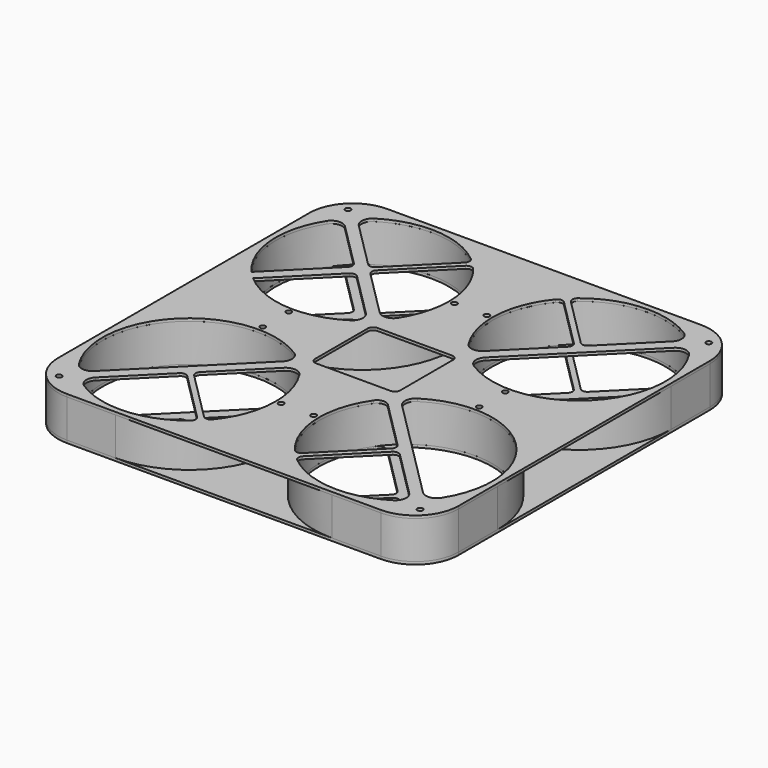
from build123d import *

# Parameters (mm, degrees)
F0_R      = 3.175
F0_R_2    = 101.6
F1_DEPTH  = 44.45
F2_R      = 5.08
F9_R      = 3.175
F10_DEPTH = 3.175
F14_DEPTH = 8.5785556585


with BuildPart() as f1:
    # F0 (on Top) → F1 (new body)
    with BuildSketch(Plane.XY):
        with BuildLine():
            ThreePointArc((106.5892857143, 17.085861726), (70.0313634263, 82.1511450721), (0, 107.95))
            Line((0, 107.95), (-57.15, 107.95))
            ThreePointArc((-57.15, 107.95), (-93.0710244843, 93.0710244843), (-107.95, 57.15))
            Line((-107.95, 57.15), (-107.95, 0))
            ThreePointArc((-107.95, 0), (-82.1511450721, -70.0313634263), (-17.085861726, -106.5892857143))
            ThreePointArc((-17.085861726, -106.5892857143), (-10.2170025512, -108.7216051413), (-4.221212897, -112.6938235294))
            ThreePointArc((-4.221212897, -112.6938235294), (0, -114.3), (4.221212897, -112.6938235294))
            ThreePointArc((4.221212897, -112.6938235294), (10.2170025512, -108.7216051413), (17.085861726, -106.5892857143))
            ThreePointArc((17.085861726, -106.5892857143), (76.3321770291, -76.3321770291), (106.5892857143, -17.085861726))
            ThreePointArc((106.5892857143, -17.085861726), (108.7216051413, -10.2170025512), (112.6938235294, -4.221212897))
            ThreePointArc((112.6938235294, -4.221212897), (114.3, 0), (112.6938235294, 4.221212897))
            ThreePointArc((112.6938235294, 4.221212897), (108.7216051413, 10.2170025512), (106.5892857143, 17.085861726))
        make_face()
        with Locations((0, -107.95)):
            Circle(F0_R, mode=Mode.SUBTRACT)
        Circle(F0_R_2, mode=Mode.SUBTRACT)
        with BuildLine():
            ThreePointArc((-80.6901280605, 71.7098719395), (-92.8318069211, 55.0949918211), (-101.6, 36.4779728055))
            Line((-101.6, 36.4779728055), (-101.6, 57.15))
            ThreePointArc((-101.6, 57.15), (-99.3291559567, 71.1757371564), (-92.7486477939, 83.7683916728))
            Line((-92.7486477939, 83.7683916728), (-80.6901280605, 71.7098719395))
        make_face(mode=Mode.SUBTRACT)
        with Locations((-84.7016007567, 84.7016007567)):
            Circle(F0_R, mode=Mode.SUBTRACT)
        with BuildLine():
            ThreePointArc((-83.7683916728, 92.7486477939), (-71.1757371564, 99.3291559567), (-57.15, 101.6))
            Line((-57.15, 101.6), (-36.4779728055, 101.6))
            ThreePointArc((-36.4779728055, 101.6), (-55.0949918211, 92.8318069211), (-71.7098719395, 80.6901280605))
            Line((-71.7098719395, 80.6901280605), (-83.7683916728, 92.7486477939))
        make_face(mode=Mode.SUBTRACT)
        with Locations((107.95, 0)):
            Circle(F0_R, mode=Mode.SUBTRACT)
    extrude(amount=F1_DEPTH)

    # F2
    f2_edges = [f1.edges().sort_by_distance(p)[0] for p in [
        (-36.477973, 101.6, 22.225),
        (-71.709872, 80.690128, 22.225),
        (-83.768392, 92.748648, 22.225),
        (-80.690128, 71.709872, 22.225),
        (-101.6, 36.477973, 22.225),
        (-92.748648, 83.768392, 22.225),
    ]]
    fillet(f2_edges, radius=F2_R)


with BuildPart() as f3_1:
    # F3: instance of F1
    add(f1.part.mirror(Plane.YZ))


with BuildPart() as f4_1:
    # F4: instance of F3_1
    add(f3_1.part.mirror(Plane.XZ))


with BuildPart() as f5_1:
    # F5: instance of F4_1
    add(f4_1.part.mirror(Plane.YZ))


with BuildPart() as f5_1_1:
    # F6: moved
    add(f5_1.part.moved(Location((0, -254, 0))))


with BuildPart() as f3_1_1:
    # F7: moved
    add(f3_1.part.moved(Location((254, 0, 0))))


with BuildPart() as f4_1_1:
    # F8: moved
    add(f4_1.part.moved(Location((254, -254, 0))))


with BuildPart() as f10:
    # F9 (on face) → F10 (new body)
    with BuildSketch(Plane.XY.offset(44.45)):
        with BuildLine():
            Line((254, 107.95), (0, 107.95))
            ThreePointArc((0, 107.95), (70.0313634263, 82.1511450721), (106.5892857143, 17.085861726))
            ThreePointArc((106.5892857143, 17.085861726), (108.7216051413, 10.2170025512), (112.6938235294, 4.221212897))
            ThreePointArc((112.6938235294, 4.221212897), (114.3, 0), (112.6938235294, -4.221212897))
            ThreePointArc((112.6938235294, -4.221212897), (108.7216051413, -10.2170025512), (106.5892857143, -17.085861726))
            ThreePointArc((106.5892857143, -17.085861726), (76.3321770291, -76.3321770291), (17.085861726, -106.5892857143))
            ThreePointArc((17.085861726, -106.5892857143), (10.2170025512, -108.7216051413), (4.221212897, -112.6938235294))
            ThreePointArc((4.221212897, -112.6938235294), (0, -114.3), (-4.221212897, -112.6938235294))
            ThreePointArc((-4.221212897, -112.6938235294), (-10.2170025512, -108.7216051413), (-17.085861726, -106.5892857143))
            ThreePointArc((-17.085861726, -106.5892857143), (-82.1511450721, -70.0313634263), (-107.95, 0))
            Line((-107.95, 0), (-107.95, -254))
            Line((-107.95, -254), (-107.95, -311.15))
            ThreePointArc((-107.95, -311.15), (-93.0710244843, -347.0710244843), (-57.15, -361.95))
            Line((-57.15, -361.95), (0, -361.95))
            Line((0, -361.95), (254, -361.95))
            Line((254, -361.95), (311.15, -361.95))
            ThreePointArc((311.15, -361.95), (347.0710244843, -347.0710244843), (361.95, -311.15))
            Line((361.95, -311.15), (361.95, -254))
            Line((361.95, -254), (361.95, 0))
            Line((361.95, 0), (361.95, 57.15))
            ThreePointArc((361.95, 57.15), (347.0710244843, 93.0710244843), (311.15, 107.95))
            Line((311.15, 107.95), (254, 107.95))
        make_face()
        with Locations((-84.7016007567, -338.7016007567)):
            Circle(F9_R, mode=Mode.SUBTRACT)
        with BuildLine():
            ThreePointArc((64.2977312829, -332.6661410766), (5.8790026415, -355.4297654929), (-54.7785069335, -339.5679564915))
            ThreePointArc((-54.7785069335, -339.5679564915), (-60.5572261663, -330.2406477221), (-56.9114496879, -319.891705809))
            Line((-56.9114496879, -319.891705809), (-2.2450640303, -265.2253201513))
            ThreePointArc((-2.2450640303, -265.2253201513), (2.2450640303, -263.3654482119), (6.7351920908, -265.2253201513))
            Line((6.7351920908, -265.2253201513), (64.7692511382, -323.2593791987))
            ThreePointArc((64.7692511382, -323.2593791987), (66.6211606419, -328.0674058809), (64.2977312829, -332.6661410766))
        make_face(mode=Mode.SUBTRACT)
        with BuildLine():
            ThreePointArc((65.891705809, -197.0885503121), (76.2406477221, -193.4427738337), (85.5679564915, -199.2214930665))
            ThreePointArc((85.5679564915, -199.2214930665), (101.4297654929, -259.8790026415), (78.6661410766, -318.2977312829))
            ThreePointArc((78.6661410766, -318.2977312829), (74.0674058809, -320.6211606419), (69.2593791987, -318.7692511382))
            Line((69.2593791987, -318.7692511382), (11.2253201513, -260.7351920908))
            ThreePointArc((11.2253201513, -260.7351920908), (9.3654482119, -256.2450640303), (11.2253201513, -251.7549359697))
            Line((11.2253201513, -251.7549359697), (65.891705809, -197.0885503121))
        make_face(mode=Mode.SUBTRACT)
        with Locations((107.95, -254)):
            Circle(F9_R, mode=Mode.SUBTRACT)
        with BuildLine():
            Line((56.9114496879, -188.108294191), (-65.891705809, -310.9114496879))
            ThreePointArc((-65.891705809, -310.9114496879), (-76.2406477221, -314.5572261663), (-85.5679564915, -308.7785069335))
            ThreePointArc((-85.5679564915, -308.7785069335), (-71.8420489686, -182.1579510314), (54.7785069335, -168.4320435085))
            ThreePointArc((54.7785069335, -168.4320435085), (60.5572261663, -177.7593522779), (56.9114496879, -188.108294191))
        make_face(mode=Mode.SUBTRACT)
        with Locations((0, -146.05)):
            Circle(F9_R, mode=Mode.SUBTRACT)
        with Locations((146.05, -254)):
            Circle(F9_R, mode=Mode.SUBTRACT)
        with BuildLine():
            ThreePointArc((175.3338589234, -318.2977312829), (152.4841046766, -258.1331581969), (170.3672093035, -196.310171431))
            ThreePointArc((170.3672093035, -196.310171431), (177.809474078, -191.9609858436), (185.91469327, -194.8949493911))
            Line((185.91469327, -194.8949493911), (242.7746798487, -251.7549359697))
            ThreePointArc((242.7746798487, -251.7549359697), (244.6345517881, -256.2450640303), (242.7746798487, -260.7351920908))
            Line((242.7746798487, -260.7351920908), (184.7406208013, -318.7692511382))
            ThreePointArc((184.7406208013, -318.7692511382), (179.9325941191, -320.6211606419), (175.3338589234, -318.2977312829))
        make_face(mode=Mode.SUBTRACT)
        with BuildLine():
            ThreePointArc((310.9114496879, -319.891705809), (314.5572261663, -330.2406477221), (308.7785069335, -339.5679564915))
            ThreePointArc((308.7785069335, -339.5679564915), (248.1209973585, -355.4297654929), (189.7022687171, -332.6661410766))
            ThreePointArc((189.7022687171, -332.6661410766), (187.3788393581, -328.0674058809), (189.2307488618, -323.2593791987))
            Line((189.2307488618, -323.2593791987), (247.2648079092, -265.2253201513))
            ThreePointArc((247.2648079092, -265.2253201513), (251.7549359697, -263.3654482119), (256.2450640303, -265.2253201513))
            Line((256.2450640303, -265.2253201513), (310.9114496879, -319.891705809))
        make_face(mode=Mode.SUBTRACT)
        with Locations((338.7016007567, -338.7016007567)):
            Circle(F9_R, mode=Mode.SUBTRACT)
        with BuildLine():
            ThreePointArc((199.2214930665, -168.4320435085), (325.8420489686, -182.1579510314), (339.5679564915, -308.7785069335))
            ThreePointArc((339.5679564915, -308.7785069335), (330.2406477221, -314.5572261663), (319.891705809, -310.9114496879))
            Line((319.891705809, -310.9114496879), (197.0885503121, -188.108294191))
            ThreePointArc((197.0885503121, -188.108294191), (193.4427738337, -177.7593522779), (199.2214930665, -168.4320435085))
        make_face(mode=Mode.SUBTRACT)
        with Locations((254, -146.05)):
            Circle(F9_R, mode=Mode.SUBTRACT)
        with Locations((254, -107.95)):
            Circle(F9_R, mode=Mode.SUBTRACT)
        with BuildLine():
            ThreePointArc((339.5679564915, 54.7785069335), (325.8420489686, -71.8420489686), (199.2214930665, -85.5679564915))
            ThreePointArc((199.2214930665, -85.5679564915), (193.4427738337, -76.2406477221), (197.0885503121, -65.891705809))
            Line((197.0885503121, -65.891705809), (319.891705809, 56.9114496879))
            ThreePointArc((319.891705809, 56.9114496879), (330.2406477221, 60.5572261663), (339.5679564915, 54.7785069335))
        make_face(mode=Mode.SUBTRACT)
        with Locations((146.05, 0)):
            Circle(F9_R, mode=Mode.SUBTRACT)
        with BuildLine():
            Line((242.7746798487, -2.2450640303), (188.108294191, -56.9114496879))
            ThreePointArc((188.108294191, -56.9114496879), (177.7593522779, -60.5572261663), (168.4320435085, -54.7785069335))
            ThreePointArc((168.4320435085, -54.7785069335), (152.5702345071, 5.8790026415), (175.3338589234, 64.2977312829))
            ThreePointArc((175.3338589234, 64.2977312829), (179.9325941191, 66.6211606419), (184.7406208013, 64.7692511382))
            Line((184.7406208013, 64.7692511382), (242.7746798487, 6.7351920908))
            ThreePointArc((242.7746798487, 6.7351920908), (244.6345517881, 2.2450640303), (242.7746798487, -2.2450640303))
        make_face(mode=Mode.SUBTRACT)
        with BuildLine():
            ThreePointArc((189.7022687171, 78.6661410766), (248.1209973585, 101.4297654929), (308.7785069335, 85.5679564915))
            ThreePointArc((308.7785069335, 85.5679564915), (314.5572261663, 76.2406477221), (310.9114496879, 65.891705809))
            Line((310.9114496879, 65.891705809), (256.2450640303, 11.2253201513))
            ThreePointArc((256.2450640303, 11.2253201513), (251.7549359697, 9.3654482119), (247.2648079092, 11.2253201513))
            Line((247.2648079092, 11.2253201513), (189.2307488618, 69.2593791987))
            ThreePointArc((189.2307488618, 69.2593791987), (187.3788393581, 74.0674058809), (189.7022687171, 78.6661410766))
        make_face(mode=Mode.SUBTRACT)
        with Locations((338.7016007567, 84.7016007567)):
            Circle(F9_R, mode=Mode.SUBTRACT)
        with BuildLine():
            Line((0, 107.95), (-57.15, 107.95))
            ThreePointArc((-57.15, 107.95), (-93.0710244843, 93.0710244843), (-107.95, 57.15))
            Line((-107.95, 57.15), (-107.95, 0))
            ThreePointArc((-107.95, 0), (-82.1511450721, -70.0313634263), (-17.085861726, -106.5892857143))
            ThreePointArc((-17.085861726, -106.5892857143), (-10.2170025512, -108.7216051413), (-4.221212897, -112.6938235294))
            ThreePointArc((-4.221212897, -112.6938235294), (0, -114.3), (4.221212897, -112.6938235294))
            ThreePointArc((4.221212897, -112.6938235294), (10.2170025512, -108.7216051413), (17.085861726, -106.5892857143))
            ThreePointArc((17.085861726, -106.5892857143), (76.3321770291, -76.3321770291), (106.5892857143, -17.085861726))
            ThreePointArc((106.5892857143, -17.085861726), (108.7216051413, -10.2170025512), (112.6938235294, -4.221212897))
            ThreePointArc((112.6938235294, -4.221212897), (114.3, 0), (112.6938235294, 4.221212897))
            ThreePointArc((112.6938235294, 4.221212897), (108.7216051413, 10.2170025512), (106.5892857143, 17.085861726))
            ThreePointArc((106.5892857143, 17.085861726), (70.0313634263, 82.1511450721), (0, 107.95))
        make_face()
        with Locations((0, -107.95)):
            Circle(F9_R, mode=Mode.SUBTRACT)
        with BuildLine():
            ThreePointArc((-76.1917229747, -67.2114674007), (-101.3012188217, -7.7860815071), (-85.5679564915, 54.7785069335))
            ThreePointArc((-85.5679564915, 54.7785069335), (-71.8420489686, 71.8420489686), (-54.7785069335, 85.5679564915))
            ThreePointArc((-54.7785069335, 85.5679564915), (5.8790026415, 101.4297654929), (64.2977312829, 78.6661410766))
            ThreePointArc((64.2977312829, 78.6661410766), (71.8420489686, 71.8420489686), (78.6661410766, 64.2977312829))
            ThreePointArc((78.6661410766, 64.2977312829), (95.6949317712, 34.1326827734), (101.6, 0))
            ThreePointArc((101.6, 0), (97.5096517775, -28.538181621), (85.5679564915, -54.7785069335))
            ThreePointArc((85.5679564915, -54.7785069335), (71.8420489686, -71.8420489686), (54.7785069335, -85.5679564915))
            ThreePointArc((54.7785069335, -85.5679564915), (-7.7860813138, -101.3012188366), (-67.21146711, -76.1917232311))
            ThreePointArc((-67.21146711, -76.1917232311), (-71.8420488315, -71.8420491056), (-76.1917229747, -67.2114674007))
        make_face(mode=Mode.SUBTRACT)
        with BuildLine():
            ThreePointArc((-96.3522301238, 78.1020322003), (-92.617465581, 80.732516142), (-88.2798728041, 79.299616683))
            Line((-88.2798728041, 79.299616683), (-84.0047053404, 75.0244492194))
            ThreePointArc((-84.0047053404, 75.0244492194), (-82.52332215, 71.6895305042), (-83.6598726073, 68.2219042194))
            ThreePointArc((-83.6598726073, 68.2219042194), (-88.1068438406, 62.3729634412), (-92.1456434802, 56.2350681303))
            add(Edge.make_bspline(
                [(-92.1456434802, 56.2350681303), (-92.435289323, 55.7604603197), (-92.7873103939, 55.3238298823), (-93.1954432577, 54.935510667), (-93.6511702464, 54.6043406349), (-94.1442684918, 54.3370820804), (-95.1847941244, 53.938187359), (-95.73247396, 53.8070841194), (-96.2951511134, 53.7490957775), (-96.8605550293, 53.7660351437), (-97.4163125407, 53.8569857599), (-98.4852064115, 54.1798402901), (-98.9983856996, 54.4117571699), (-99.4786268164, 54.7106501243), (-99.9151181088, 55.0704327515), (-100.2986443135, 55.4828024676), (-100.9469506167, 56.394659294), (-101.2112764394, 56.8945257402), (-101.4079693264, 57.4273735426), (-101.5321620327, 57.9816252697), (-101.5816428532, 58.544900216), (-101.5569940952, 59.1048338618)],
                knots=[0, 0, 0, 0, 0, 0, 0, 0.2489999479, 0.2489999479, 0.2489999479, 0.2489999479, 0.2489999479, 0.499000044, 0.499000044, 0.499000044, 0.499000044, 0.499000044, 0.7490001384, 0.7490001384, 0.7490001384, 0.7490001384, 0.7490001384, 1, 1, 1, 1, 1, 1, 1], degree=6))
            ThreePointArc((-101.5569940952, 59.1048338618), (-100.0201408885, 68.895361646), (-96.3522301238, 78.1020322003))
        make_face(mode=Mode.SUBTRACT)
        with Locations((-84.7016007567, 84.7016007567)):
            Circle(F9_R, mode=Mode.SUBTRACT)
        with BuildLine():
            add(Edge.make_bspline(
                [(-56.2350681303, 92.1456434802), (-55.7604603197, 92.435289323), (-55.3238298823, 92.7873103939), (-54.935510667, 93.1954432577), (-54.6043406349, 93.6511702464), (-54.3370820804, 94.1442684918), (-53.938187359, 95.1847941244), (-53.8070841194, 95.73247396), (-53.7490957775, 96.2951511134), (-53.7660351437, 96.8605550293), (-53.8569857599, 97.4163125407), (-54.1798402901, 98.4852064115), (-54.4117571699, 98.9983856996), (-54.7106501243, 99.4786268164), (-55.0704327515, 99.9151181088), (-55.4828024676, 100.2986443135), (-56.394659294, 100.9469506167), (-56.8945257402, 101.2112764394), (-57.4273735426, 101.4079693264), (-57.9816252697, 101.5321620327), (-58.544900216, 101.5816428532), (-59.1048338618, 101.5569940952)],
                knots=[0, 0, 0, 0, 0, 0, 0, 0.2489999479, 0.2489999479, 0.2489999479, 0.2489999479, 0.2489999479, 0.499000044, 0.499000044, 0.499000044, 0.499000044, 0.499000044, 0.7490001384, 0.7490001384, 0.7490001384, 0.7490001384, 0.7490001384, 1, 1, 1, 1, 1, 1, 1], degree=6))
            ThreePointArc((-56.2350681303, 92.1456434802), (-62.3729634412, 88.1068438406), (-68.2219042194, 83.6598726073))
            ThreePointArc((-68.2219042194, 83.6598726073), (-71.6895305042, 82.52332215), (-75.0244492194, 84.0047053404))
            Line((-75.0244492194, 84.0047053404), (-79.299616683, 88.2798728041))
            ThreePointArc((-79.299616683, 88.2798728041), (-80.732516142, 92.617465581), (-78.1020322003, 96.3522301238))
            ThreePointArc((-78.1020322003, 96.3522301238), (-68.895361646, 100.0201408885), (-59.1048338618, 101.5569940952))
        make_face(mode=Mode.SUBTRACT)
        with Locations((107.95, 0)):
            Circle(F9_R, mode=Mode.SUBTRACT)
        with BuildLine():
            ThreePointArc((-68.2219042194, 83.6598726073), (-62.3729634412, 88.1068438406), (-56.2350681303, 92.1456434802))
            add(Edge.make_bspline(
                [(-56.2350681303, 92.1456434802), (-55.7604603197, 92.435289323), (-55.3238298823, 92.7873103939), (-54.935510667, 93.1954432577), (-54.6043406349, 93.6511702464), (-54.3370820804, 94.1442684918), (-53.938187359, 95.1847941244), (-53.8070841194, 95.73247396), (-53.7490957775, 96.2951511134), (-53.7660351437, 96.8605550293), (-53.8569857599, 97.4163125407), (-54.1798402901, 98.4852064115), (-54.4117571699, 98.9983856996), (-54.7106501243, 99.4786268164), (-55.0704327515, 99.9151181088), (-55.4828024676, 100.2986443135), (-56.394659294, 100.9469506167), (-56.8945257402, 101.2112764394), (-57.4273735426, 101.4079693264), (-57.9816252697, 101.5321620327), (-58.544900216, 101.5816428532), (-59.1048338618, 101.5569940952)],
                knots=[0, 0, 0, 0, 0, 0, 0, 0.2489999479, 0.2489999479, 0.2489999479, 0.2489999479, 0.2489999479, 0.499000044, 0.499000044, 0.499000044, 0.499000044, 0.499000044, 0.7490001384, 0.7490001384, 0.7490001384, 0.7490001384, 0.7490001384, 1, 1, 1, 1, 1, 1, 1], degree=6))
            ThreePointArc((-59.1048338618, 101.5569940952), (-68.895361646, 100.0201408885), (-78.1020322003, 96.3522301238))
            ThreePointArc((-78.1020322003, 96.3522301238), (-80.732516142, 92.617465581), (-79.299616683, 88.2798728041))
            Line((-79.299616683, 88.2798728041), (-75.0244492194, 84.0047053404))
            ThreePointArc((-75.0244492194, 84.0047053404), (-71.6895305042, 82.52332215), (-68.2219042194, 83.6598726073))
        make_face()
        with BuildLine():
            Line((-84.0047053404, 75.0244492194), (-88.2798728041, 79.299616683))
            ThreePointArc((-88.2798728041, 79.299616683), (-92.617465581, 80.732516142), (-96.3522301238, 78.1020322003))
            ThreePointArc((-96.3522301238, 78.1020322003), (-100.0201408885, 68.895361646), (-101.5569940952, 59.1048338618))
            add(Edge.make_bspline(
                [(-92.1456434802, 56.2350681303), (-92.435289323, 55.7604603197), (-92.7873103939, 55.3238298823), (-93.1954432577, 54.935510667), (-93.6511702464, 54.6043406349), (-94.1442684918, 54.3370820804), (-95.1847941244, 53.938187359), (-95.73247396, 53.8070841194), (-96.2951511134, 53.7490957775), (-96.8605550293, 53.7660351437), (-97.4163125407, 53.8569857599), (-98.4852064115, 54.1798402901), (-98.9983856996, 54.4117571699), (-99.4786268164, 54.7106501243), (-99.9151181088, 55.0704327515), (-100.2986443135, 55.4828024676), (-100.9469506167, 56.394659294), (-101.2112764394, 56.8945257402), (-101.4079693264, 57.4273735426), (-101.5321620327, 57.9816252697), (-101.5816428532, 58.544900216), (-101.5569940952, 59.1048338618)],
                knots=[0, 0, 0, 0, 0, 0, 0, 0.2489999479, 0.2489999479, 0.2489999479, 0.2489999479, 0.2489999479, 0.499000044, 0.499000044, 0.499000044, 0.499000044, 0.499000044, 0.7490001384, 0.7490001384, 0.7490001384, 0.7490001384, 0.7490001384, 1, 1, 1, 1, 1, 1, 1], degree=6))
            ThreePointArc((-92.1456434802, 56.2350681303), (-88.1068438406, 62.3729634412), (-83.6598726073, 68.2219042194))
            ThreePointArc((-83.6598726073, 68.2219042194), (-82.52332215, 71.6895305042), (-84.0047053404, 75.0244492194))
        make_face()
        with BuildLine():
            ThreePointArc((-54.7785069335, 85.5679564915), (-71.8420489686, 71.8420489686), (-85.5679564915, 54.7785069335))
            ThreePointArc((-85.5679564915, 54.7785069335), (-76.2406477221, 60.5572261663), (-65.891705809, 56.9114496879))
            Line((-65.891705809, 56.9114496879), (-13.4703839081, 4.490127787))
            ThreePointArc((-13.4703839081, 4.490127787), (-11.6105119686, -2.735e-07), (-13.4703839081, -4.4901283341))
            Line((-13.4703839081, -4.4901283341), (-76.1917229747, -67.2114674007))
            ThreePointArc((-76.1917229747, -67.2114674007), (-71.8420488315, -71.8420491056), (-67.21146711, -76.1917232311))
            Line((-67.21146711, -76.1917232311), (-4.4901280605, -13.4703841816))
            ThreePointArc((-4.4901280605, -13.4703841816), (0, -11.6105122421), (4.4901280605, -13.4703841816))
            Line((4.4901280605, -13.4703841816), (56.9114496879, -65.891705809))
            ThreePointArc((56.9114496879, -65.891705809), (60.5572261663, -76.2406477221), (54.7785069335, -85.5679564915))
            ThreePointArc((54.7785069335, -85.5679564915), (71.8420489686, -71.8420489686), (85.5679564915, -54.7785069335))
            ThreePointArc((85.5679564915, -54.7785069335), (76.2406477221, -60.5572261663), (65.891705809, -56.9114496879))
            Line((65.891705809, -56.9114496879), (11.2253201513, -2.2450640303))
            ThreePointArc((11.2253201513, -2.2450640303), (9.3654482119, 2.2450640303), (11.2253201513, 6.7351920908))
            Line((11.2253201513, 6.7351920908), (69.2593791987, 64.7692511382))
            ThreePointArc((69.2593791987, 64.7692511382), (74.0674058809, 66.6211606419), (78.6661410766, 64.2977312829))
            ThreePointArc((78.6661410766, 64.2977312829), (71.8420489686, 71.8420489686), (64.2977312829, 78.6661410766))
            ThreePointArc((64.2977312829, 78.6661410766), (66.6211606419, 74.0674058809), (64.7692511382, 69.2593791987))
            Line((64.7692511382, 69.2593791987), (6.7351920908, 11.2253201513))
            ThreePointArc((6.7351920908, 11.2253201513), (2.2450640303, 9.3654482119), (-2.2450640303, 11.2253201513))
            Line((-2.2450640303, 11.2253201513), (-56.9114496879, 65.891705809))
            ThreePointArc((-56.9114496879, 65.891705809), (-60.5572261663, 76.2406477221), (-54.7785069335, 85.5679564915))
        make_face()
    extrude(amount=F10_DEPTH)


with BuildPart() as f11_1:
    # F11: instance of F10
    add(f10.part.mirror(Plane.XY))


with BuildPart() as f11_1_1:
    # F12: moved
    add(f11_1.part.moved(Location((0, 0, 44.45))))


with BuildPart() as f10_1:
    add(f10.part)

    # F13 (on face) → F14 (cut)
    with BuildSketch(Plane.XY.offset(47.625)):
        with BuildLine():
            Line((83.35, -172), (170.65, -172))
            ThreePointArc((170.65, -172), (175.1401280605, -170.1401280605), (177, -165.65))
            Line((177, -165.65), (177, -88.35))
            ThreePointArc((177, -88.35), (175.1401280605, -83.8598719395), (170.65, -82))
            Line((170.65, -82), (83.35, -82))
            ThreePointArc((83.35, -82), (78.8598719395, -83.8598719395), (77, -88.35))
            Line((77, -88.35), (77, -165.65))
            ThreePointArc((77, -165.65), (78.8598719395, -170.1401280605), (83.35, -172))
        make_face()
        with BuildLine():
            Line((83.35, -172), (170.65, -172))
            ThreePointArc((170.65, -172), (175.1401280605, -170.1401280605), (177, -165.65))
            Line((177, -165.65), (177, -88.35))
            ThreePointArc((177, -88.35), (175.1401280605, -83.8598719395), (170.65, -82))
            Line((170.65, -82), (83.35, -82))
            ThreePointArc((83.35, -82), (78.8598719395, -83.8598719395), (77, -88.35))
            Line((77, -88.35), (77, -165.65))
            ThreePointArc((77, -165.65), (78.8598719395, -170.1401280605), (83.35, -172))
        make_face()
    extrude(amount=-F14_DEPTH, mode=Mode.SUBTRACT)


solid = Compound([f1.part, f5_1_1.part, f3_1_1.part, f4_1_1.part, f11_1_1.part, f10_1.part])
